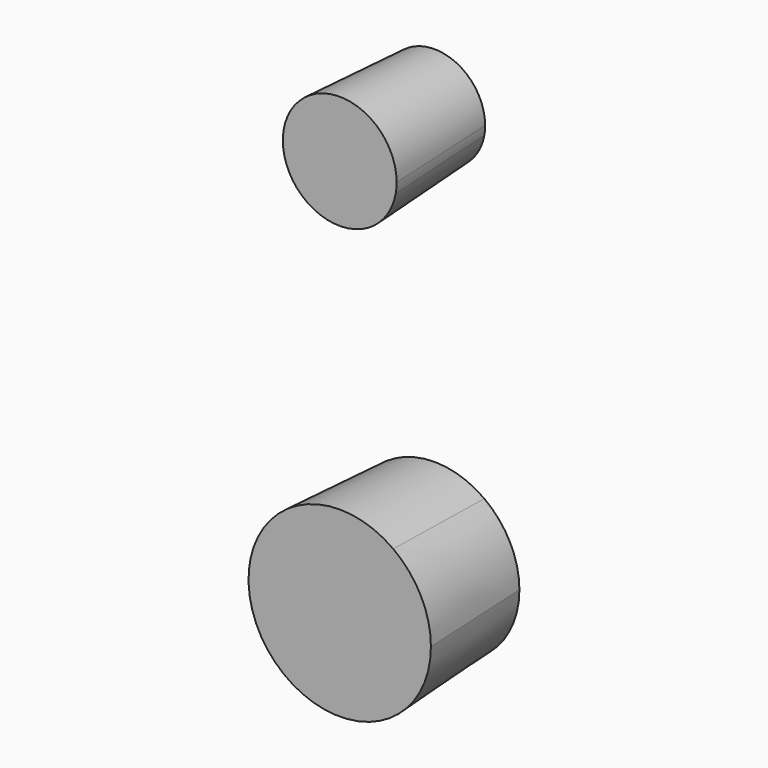
from build123d import *

# Parameters (mm, degrees)
F1_DEPTH = 25.4
F1_TAPER = -3


with BuildPart() as f1:
    # F0 (on Front) → F1 (new body)
    with BuildSketch(Plane.XZ):
        with BuildLine():
            ThreePointArc((18.2378122762, -29.0945470333), (16.2462021612, -20.807285003), (10.706348423, -14.329998274))
            ThreePointArc((10.706348423, -14.329998274), (-16.2462021612, -37.3818090637), (18.2378122762, -29.0945470333))
        make_face()
    extrude(amount=F1_DEPTH, taper=F1_TAPER)


with BuildPart() as f1b:
    # F0 (on Front) → F1, piece 2 (new body)
    with BuildSketch(Plane.XZ):
        with BuildLine():
            ThreePointArc((10.8817266259, 56.230802089), (-10.8377933885, 57.2076382218), (10.706348423, 54.2850174638))
            ThreePointArc((10.706348423, 54.2850174638), (10.8377933885, 55.2539659561), (10.8817266259, 56.230802089))
        make_face()
    extrude(amount=F1_DEPTH, taper=F1_TAPER)


solid = Compound([f1.part, f1b.part])
